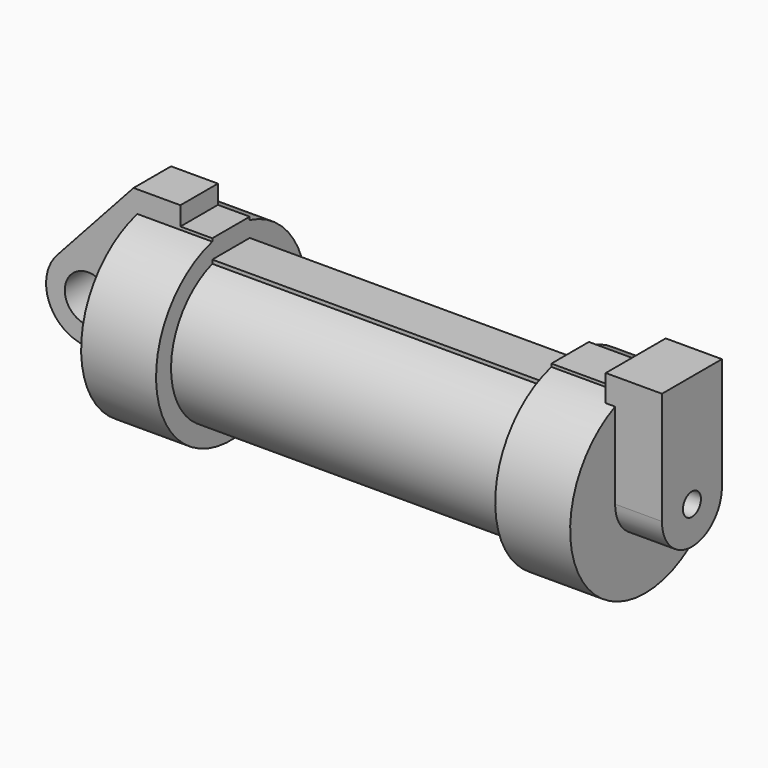
from build123d import *

# Parameters (mm, degrees)
F0_W          = 5.842
F0_H          = 12.7
F0_R          = 3.175
F2_DEPTH      = 3.175
F3_R          = 1.524
F4_DEPTH      = 1.27
F4_DEPTH_BACK = 6.35


with BuildPart() as f1:
    # F0 (on Front) → F1 (revolve)
    with BuildSketch(Plane.XZ):
        Polygon((5.842, 12.7), (5.842, 0), (66.294, 0), (66.294, 12.7), (56.134, 12.7), (56.134, 10.16), (10.16, 10.16), (10.16, 12.7), align=None)
        with Locations((2.921, 6.35)):
            Rectangle(F0_W, F0_H)
    revolve(axis=Axis((33.147, 0, 0), (-1, 0, 0)))

    # F0 (on Front) → F2 (join, symmetric)
    with BuildSketch(Plane.XZ):
        Polygon((5.842, 12.7), (5.842, 0), (66.294, 0), (66.294, 12.7), (56.134, 12.7), (56.134, 10.16), (10.16, 10.16), (10.16, 12.7), align=None)
        with Locations((2.921, 6.35)):
            Rectangle(F0_W, F0_H)
        with BuildLine():
            Line((-0.9398, 0), (0, 0))
            Line((0, 0), (0, 12.7))
            Line((0, 12.7), (5.842, 12.7))
            Line((5.842, 12.7), (5.842, 15.24))
            Line((5.842, 15.24), (-0.508, 15.24))
            Line((-0.508, 15.24), (-10.8806298187, 3.8475430269))
            ThreePointArc((-10.8806298187, 3.8475430269), (-4.5919612295, 5.3297205562), (-0.9398, 0))
        make_face()
        with BuildLine():
            Line((5.842, 0), (0, 0))
            Line((0, 0), (-0.9398, 0))
            ThreePointArc((-0.9398, 0), (-3.1957909266, -4.5493385486), (-8.1826630726, -5.5069827884))
            Line((-8.1826630726, -5.5069827884), (5.842, -9.398))
            Line((5.842, -9.398), (5.842, 0))
        make_face()
        with BuildLine():
            ThreePointArc((-8.1826630726, -5.5069827884), (-3.1957909266, -4.5493385486), (-0.9398, 0))
            ThreePointArc((-0.9398, 0), (-4.5919612295, 5.3297205562), (-10.8806298187, 3.8475430269))
            ThreePointArc((-10.8806298187, 3.8475430269), (-12.1459778134, -1.5837270034), (-8.1826630726, -5.5069827884))
        make_face()
        with Locations((-6.6548, 0)):
            Circle(F0_R, mode=Mode.SUBTRACT)
    extrude(amount=F2_DEPTH, both=True)

    # F3 (on face) → F4 (join, two sides)
    with BuildSketch(Plane.YZ.offset(66.294)) as f4_sk:
        with BuildLine():
            ThreePointArc((-5.08, 0), (0, -5.08), (5.08, 0))
            ThreePointArc((5.08, 0), (0, 5.08), (-5.08, 0))
        make_face()
        Circle(F3_R, mode=Mode.SUBTRACT)
        with BuildLine():
            ThreePointArc((-5.08, 0), (0, 5.08), (5.08, 0))
            Line((5.08, 0), (5.08, 15.24))
            Line((5.08, 15.24), (-5.08, 15.24))
            Line((-5.08, 15.24), (-5.08, 0))
        make_face()
    extrude(amount=-F4_DEPTH)
    extrude(f4_sk.sketch, amount=F4_DEPTH_BACK)


solid = f1.part
